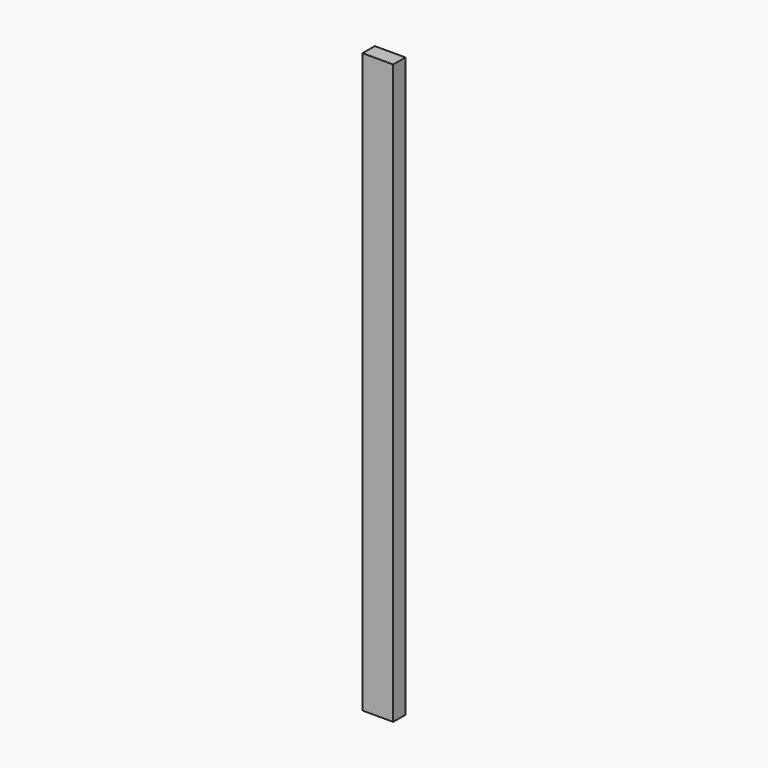
from build123d import *

# Parameters (mm, degrees)
F0_W     = 38.1
F0_H     = 359.56875
F1_DEPTH = 9.525


with BuildPart() as f1:
    # F0 (on Front) → F1 (new body, symmetric)
    with BuildSketch(Plane.XZ):
        with Locations((-12.9539953259, 179.784375)):
            Rectangle(F0_W, F0_H)
        with Locations((-12.9539953259, -179.784375)):
            Rectangle(F0_W, F0_H)
    extrude(amount=F1_DEPTH, both=True)


solid = f1.part
